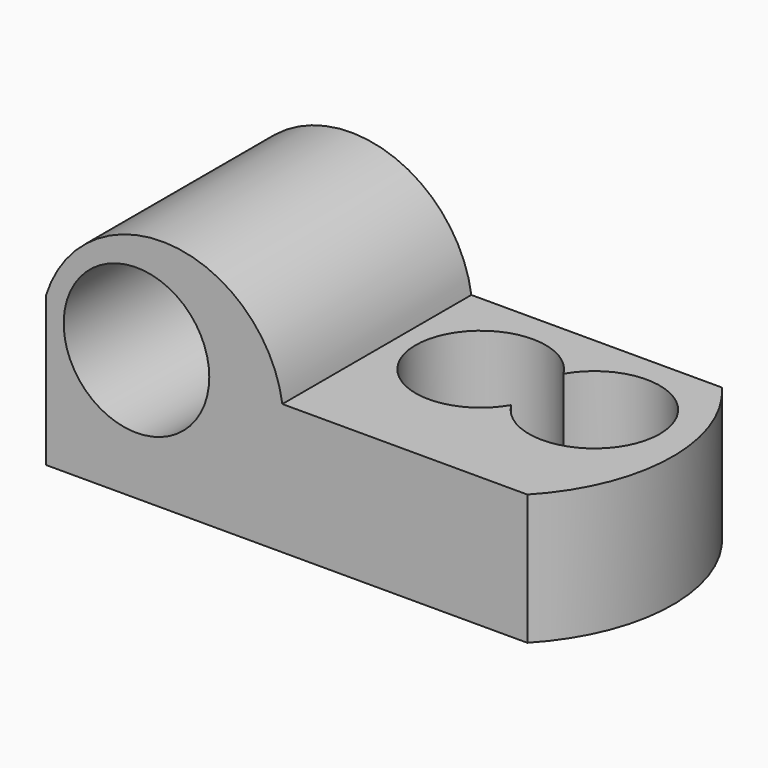
from build123d import *

# Parameters (mm, degrees)
F0_R     = 7.825273897
F1_DEPTH = 25.4
F3_DEPTH = 25.4
F5_DEPTH = 25.4
F7_DEPTH = 25.4


with BuildPart() as f1:
    # F0 (on Front) → F1 (new body)
    with BuildSketch(Plane.XZ):
        Polygon((0, 25.4), (-25.4, 25.4), (-25.4, 0), (31.75, 0), (31.75, 14.0331494874), (0, 14.0331494874), align=None)
        with Locations((-15.6803522259, 14.0331494874)):
            Circle(F0_R, mode=Mode.SUBTRACT)
    extrude(amount=F1_DEPTH)

    # F2 (on face) → F3 (cut)
    with BuildSketch(Plane.XY.offset(14.0331494874)):
        with BuildLine():
            ThreePointArc((15.1169737006, -13.5398786525), (15.8111405263, -11.8567285769), (16.0478653305, -10.0515075028))
            ThreePointArc((16.0478653305, -10.0515075028), (15.7801184051, -8.1338066206), (14.9973556185, -6.3627765504))
            ThreePointArc((14.9973556185, -6.3627765504), (14.0730886432, -9.9677288292), (15.1169737006, -13.5398786525))
        make_face()
        with BuildLine():
            ThreePointArc((14.9973556185, -6.3627765504), (15.7801184051, -8.1338066206), (16.0478653305, -10.0515075028))
            ThreePointArc((16.0478653305, -10.0515075028), (15.8111405263, -11.8567285769), (15.1169737006, -13.5398786525))
            ThreePointArc((15.1169737006, -13.5398786525), (23.0254188868, -16.6202802265), (28.1442228705, -9.8504777998))
            ThreePointArc((28.1442228705, -9.8504777998), (22.9123385557, -3.0496657427), (14.9973556185, -6.3627765504))
        make_face()
        with BuildLine():
            ThreePointArc((15.1169737006, -13.5398786525), (14.0730886432, -9.9677288292), (14.9973556185, -6.3627765504))
            ThreePointArc((14.9973556185, -6.3627765504), (2.0458192815, -10.1681828387), (15.1169737006, -13.5398786525))
        make_face()
    extrude(amount=-F3_DEPTH, mode=Mode.SUBTRACT)

    # F4 (on face) → F5 (cut)
    with BuildSketch(Plane.XY.offset(14.0331494874)):
        with BuildLine():
            ThreePointArc((26.9380398095, 0), (31.5529389663, -12.816734396), (26.3349507004, -25.4))
            Line((26.3349507004, -25.4), (31.75, -25.4))
            Line((31.75, -25.4), (31.75, 0))
            Line((31.75, 0), (26.9380398095, 0))
        make_face()
    extrude(amount=-F5_DEPTH, mode=Mode.SUBTRACT)

    # F6 (on face) → F7 (cut)
    with BuildSketch(Plane.XZ.offset(25.4)):
        with BuildLine():
            ThreePointArc((-25.4, 16.0824116319), (-11.8835850118, 25.1770035953), (0, 14.0331494874))
            Line((0, 14.0331494874), (0, 25.4))
            Line((0, 25.4), (-25.4, 25.4))
            Line((-25.4, 25.4), (-25.4, 16.0824116319))
        make_face()
    extrude(amount=-F7_DEPTH, mode=Mode.SUBTRACT)


solid = f1.part
